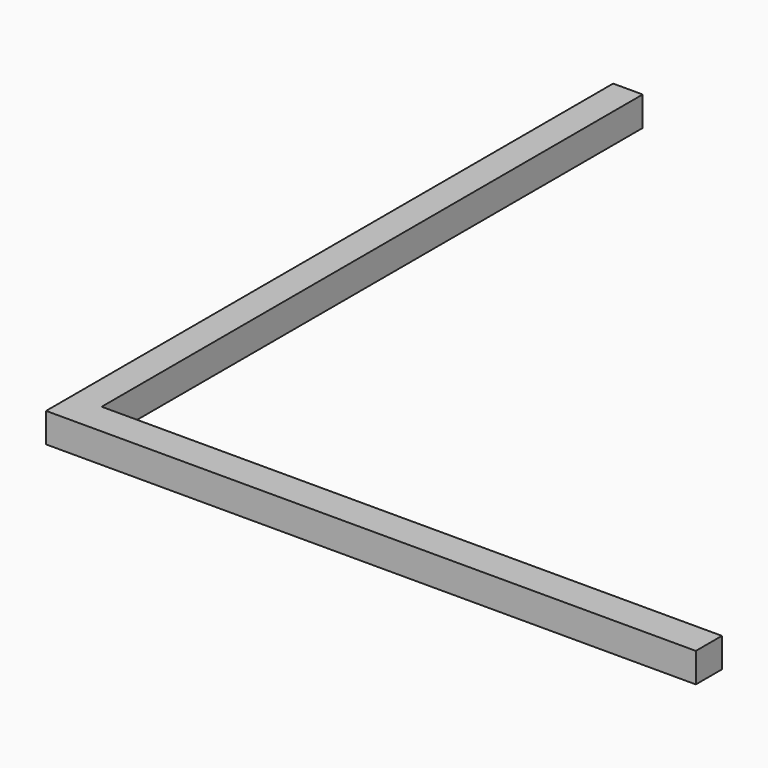
from build123d import *

# Parameters (mm, degrees)
F0_W     = 508
F0_H     = 28.0362031937
F0_W_2   = 25.4
F0_H_2   = 556.1637968063
F0_H_3   = 25.4
F1_DEPTH = 25.4


with BuildPart() as f1:
    # F0 (on Top) → F1 (new body)
    with BuildSketch(Plane.XY):
        with Locations((-266.7, -290.7818984032)):
            Rectangle(F0_W, F0_H)
        with Locations((-533.4, -290.7818984032)):
            Rectangle(F0_W_2, F0_H)
        with Locations((0, -290.7818984032)):
            Rectangle(F0_W_2, F0_H)
        with Locations((-533.4, 1.3181015968)):
            Rectangle(F0_W_2, F0_H_2)
        with Locations((-533.4, 292.1)):
            Rectangle(F0_W_2, F0_H_3)
    extrude(amount=F1_DEPTH)


solid = f1.part
